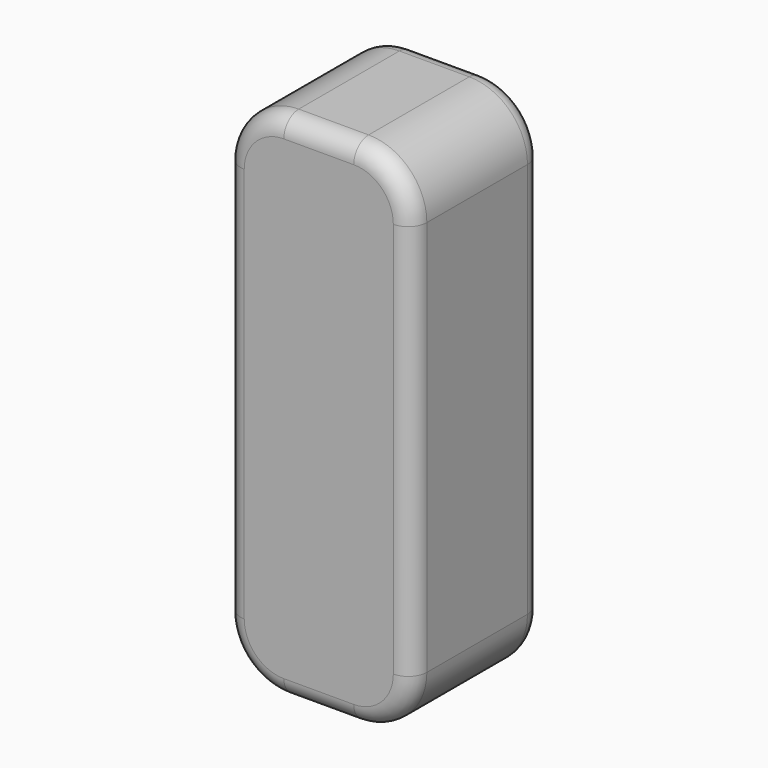
from build123d import *

# Parameters (mm, degrees)
F1_DEPTH = 44.45
F2_R     = 5.08


with BuildPart() as f1:
    # F0 (on Front) → F1 (new body)
    with BuildSketch(Plane.XZ):
        with BuildLine():
            ThreePointArc((25.4, 53.975), (20.75032, 65.20032), (9.525, 69.85))
            Line((9.525, 69.85), (-9.525, 69.85))
            ThreePointArc((-9.525, 69.85), (-20.75032, 65.20032), (-25.4, 53.975))
            Line((-25.4, 53.975), (-25.4, -53.975))
            ThreePointArc((-25.4, -53.975), (-20.75032, -65.20032), (-9.525, -69.85))
            Line((-9.525, -69.85), (9.525, -69.85))
            ThreePointArc((9.525, -69.85), (20.75032, -65.20032), (25.4, -53.975))
            Line((25.4, -53.975), (25.4, 53.975))
        make_face()
    extrude(amount=F1_DEPTH)

    # F2
    f2_edges = [f1.edges().sort_by_distance(p)[0] for p in [
        (-9.525, -22.225, 69.85),
        (-25.4, -22.225, 53.975),
        (-20.75032, 0, 65.20032),
        (-20.75032, -44.45, 65.20032),
        (20.75032, 0, 65.20032),
        (0, 0, 69.85),
        (-25.4, 0, 0),
        (-20.75032, 0, -65.20032),
        (0, 0, -69.85),
        (20.75032, 0, -65.20032),
        (25.4, 0, 0),
    ]]
    fillet(f2_edges, radius=F2_R)


solid = f1.part
